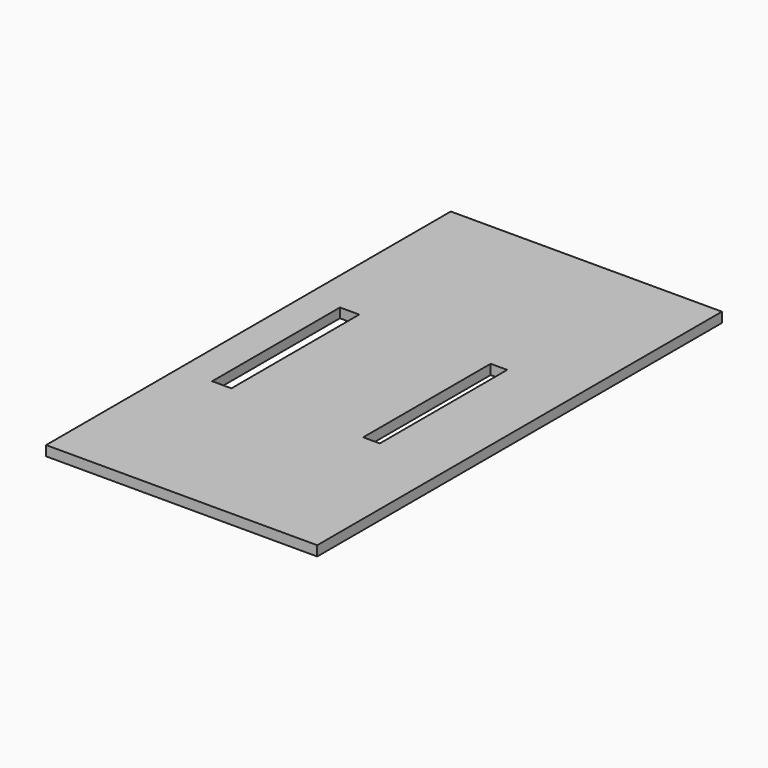
from build123d import *

# Parameters (mm, degrees)
F1_W     = 81.7429842427
F1_H     = 152.4926796556
F1_W_2   = 5
F1_H_2   = 48
F2_DEPTH = 3
F3_W     = 5.8016777039
F3_H     = 48.1700506061
F4_DEPTH = 3
F4_TAPER = -3


with BuildPart() as f2:
    # F1 (on face) → F2 (new body)
    with BuildSketch(Plane.XY):
        with Locations((-55.9630780481, -13.1623707712)):
            Rectangle(F1_W, F1_H)
        with Locations((-38.5132706165, -15.6794825792)):
            Rectangle(F1_W_2, F1_H_2, mode=Mode.SUBTRACT)
    extrude(amount=F2_DEPTH)

    # F3 (on face) → F4 (cut)
    with BuildSketch(Plane.XY.offset(3)):
        with Locations((-83.7300717831, -15.4950181022)):
            Rectangle(F3_W, F3_H)
    extrude(amount=-F4_DEPTH, taper=F4_TAPER, mode=Mode.SUBTRACT)


solid = f2.part
